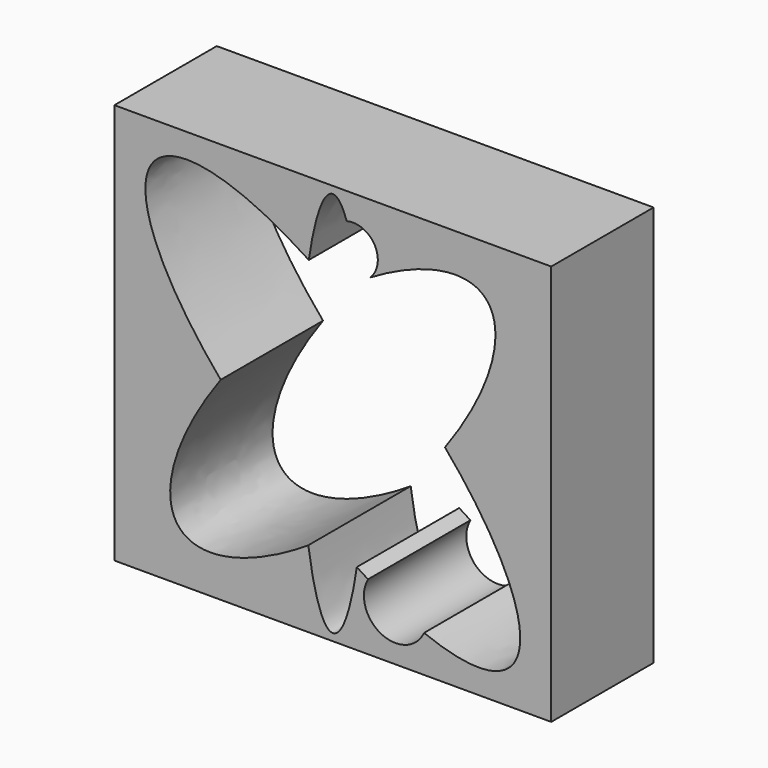
from build123d import *

# Parameters (mm, degrees)
F0_W     = 86.713158
F0_H     = 79.58214
F1_DEPTH = 25.4


with BuildPart() as f1:
    # F0 (on Front) → F1 (new body)
    with BuildSketch(Plane.XZ):
        Rectangle(F0_W, F0_H)
        with BuildLine():
            add(Edge.make_bspline(
                [(-35.36984, 32.660052), (-43.630681, 23.713813), (-22.259437, -1.337829)],
                knots=[0, 0, 0, 1.244177, 1.244177, 1.244177], degree=2, weights=[1, 0.812663, 1]))
            add(Edge.make_bspline(
                [(-4.765757, 25.279926), (-28.087234, 40.546892), (-35.36984, 32.660052)],
                knots=[5.155733, 5.155733, 5.155733, 6.283185, 6.283185, 6.283185], degree=2, weights=[1, 0.84527, 1]))
            add(Edge.make_bspline(
                [(0, 38.364865), (-2.872782, 38.364865), (-4.765757, 25.279926)],
                knots=[0, 0, 0, 0.851395, 0.851395, 0.851395], degree=2, weights=[1, 0.910751, 1]))
            add(Edge.make_bspline(
                [(2.763368, 34.523458), (1.454502, 38.364865), (0, 38.364865)],
                knots=[5.831864, 5.831864, 5.831864, 6.283185, 6.283185, 6.283185], degree=2, weights=[1, 0.974647, 1]))
            ThreePointArc((2.763368, 34.523458), (7.020907, 33.649159), (8.935218, 29.747051))
            ThreePointArc((8.935218, 29.747051), (8.539057, 27.809914), (7.41419, 26.183841))
            add(Edge.make_bspline(
                [(30.235512, 30.092888), (24.193663, 36.163372), (7.41419, 26.183841)],
                knots=[0, 0, 0, 0.981014, 0.981014, 0.981014], degree=2, weights=[1, 0.882094, 1]))
            add(Edge.make_bspline(
                [(22.259437, 1.337829), (37.712849, 22.580113), (30.235512, 30.092888)],
                knots=[5.115155, 5.115155, 5.115155, 6.283185, 6.283185, 6.283185], degree=2, weights=[1, 0.834256, 1]))
            add(Edge.make_bspline(
                [(18.116728, -32.437346), (68.240774, -52.562076), (22.259437, 1.337829)],
                knots=[2.394352, 2.394352, 2.394352, 4.38577, 4.38577, 4.38577], degree=2, weights=[1, 0.543908, 1]))
            ThreePointArc((18.116728, -32.437346), (9.559764, -35.369126), (6.991325, -26.696173))
            add(Edge.make_bspline(
                [(4.765757, -25.279926), (5.883942, -26.011924), (6.991325, -26.696173)],
                knots=[2.01414, 2.01414, 2.01414, 2.074741, 2.074741, 2.074741], degree=2, weights=[1, 0.999541, 1]))
            add(Edge.make_bspline(
                [(-4.862435, -24.595616), (-0.11439, -59.013299), (4.765757, -25.279926)],
                knots=[2.266724, 2.266724, 2.266724, 3.992988, 3.992988, 3.992988], degree=2, weights=[1, 0.650061, 1]))
            add(Edge.make_bspline(
                [(-22.259437, -1.337829), (-69.92987, -66.86568), (-4.862435, -24.595616)],
                knots=[1.973562, 1.973562, 1.973562, 4.203143, 4.203143, 4.203143], degree=2, weights=[1, 0.440366, 1]))
        make_face(mode=Mode.SUBTRACT)
    extrude(amount=F1_DEPTH)


solid = f1.part
